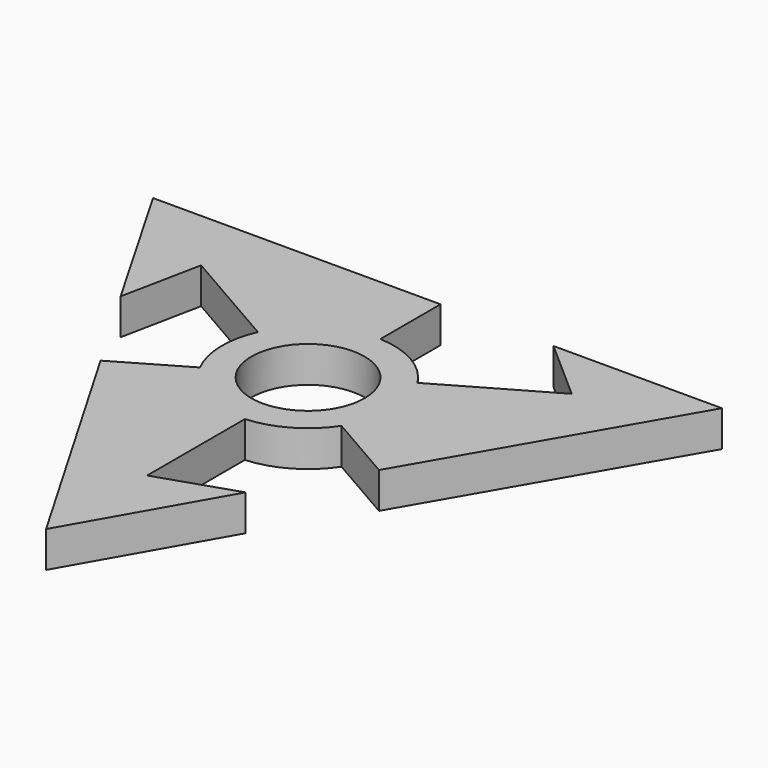
from build123d import *

# Parameters (mm, degrees)
F0_R     = 11
F1_DEPTH = 7


with BuildPart() as f1:
    # F0 (on Top) → F1 (new body)
    with BuildSketch(Plane.XY):
        with BuildLine():
            Line((-79.085397, 23.327281), (-79.085397, 47.100014))
            ThreePointArc((-79.085397, 47.100014), (-88.384777, 49.226388), (-95.008704, 56.091044))
            Line((-95.008704, 56.091044), (-108.206271, 48.420432))
            Line((-108.206271, 48.420432), (-80.063631, 0))
            Line((-80.063631, 0), (-63.942127, 28.346852))
            Line((-63.942127, 28.346852), (-79.085397, 23.327281))
        make_face()
        with BuildLine():
            ThreePointArc((-66.239595, 54.523998), (-64.154233, 58.949331), (-63.438703, 63.788786))
            ThreePointArc((-63.438703, 63.788786), (-64.107006, 68.469178), (-66.058502, 72.775495))
            ThreePointArc((-66.058502, 72.775495), (-71.814172, 78.279659), (-79.462972, 80.497637))
            ThreePointArc((-79.462972, 80.497637), (-88.938601, 78.024269), (-95.404648, 70.669315))
            ThreePointArc((-95.404648, 70.669315), (-96.879487, 63.334746), (-95.008704, 56.091044))
            ThreePointArc((-95.008704, 56.091044), (-88.384777, 49.226388), (-79.085397, 47.100014))
            ThreePointArc((-79.085397, 47.100014), (-71.794137, 49.309474), (-66.239595, 54.523998))
        make_face()
        with Locations((-80.162177, 63.788786)):
            Circle(F0_R, mode=Mode.SUBTRACT)
        with BuildLine():
            ThreePointArc((-95.404648, 70.669315), (-88.938601, 78.024269), (-79.462972, 80.497637))
            Line((-79.462972, 80.497637), (-79.462972, 95.140094))
            Line((-79.462972, 95.140094), (-135.377639, 95.140094))
            Line((-135.377639, 95.140094), (-119.031046, 66.820409))
            Line((-119.031046, 66.820409), (-115.861288, 82.432406))
            Line((-115.861288, 82.432406), (-95.404648, 70.669315))
        make_face()
        with BuildLine():
            ThreePointArc((-66.058502, 72.775495), (-64.107006, 68.469178), (-63.438703, 63.788786))
            ThreePointArc((-63.438703, 63.788786), (-64.154233, 58.949331), (-66.239595, 54.523998))
            Line((-66.239595, 54.523998), (-52.715497, 46.739502))
            Line((-52.715497, 46.739502), (-24.749623, 95.140094))
            Line((-24.749623, 95.140094), (-57.50938, 95.140094))
            Line((-57.50938, 95.140094), (-45.520269, 84.587513))
            Line((-45.520269, 84.587513), (-66.058502, 72.775495))
        make_face()
    extrude(amount=F1_DEPTH)


solid = f1.part
